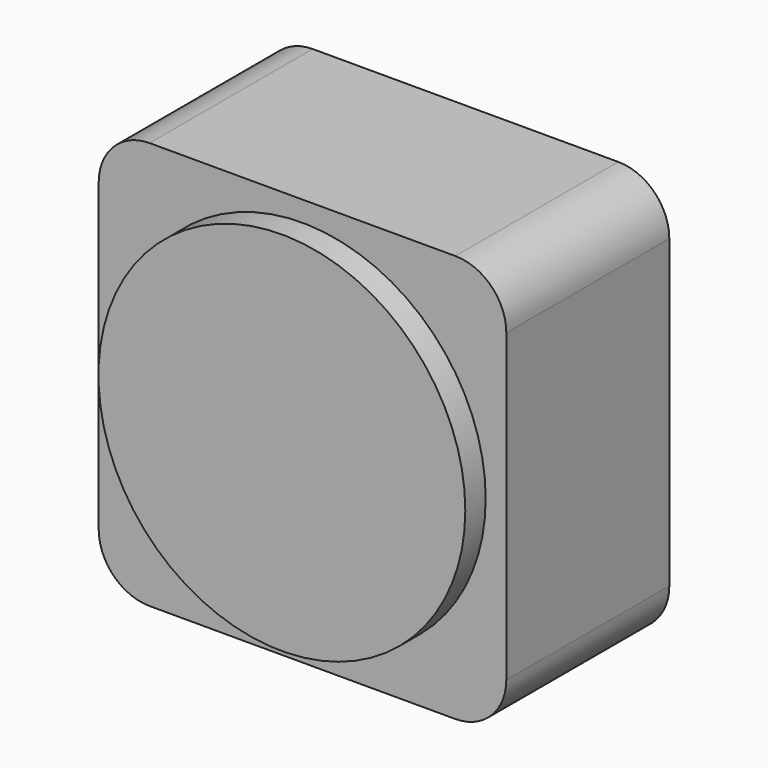
from build123d import *

# Parameters (mm, degrees)
F0_W     = 40
F0_H     = 40
F1_DEPTH = 20
F2_R     = 5
F3_R     = 18
F4_DEPTH = 2.5


with BuildPart() as f1:
    # F0 (on Front) → F1 (new body)
    with BuildSketch(Plane.XZ):
        with Locations((20, 20)):
            Rectangle(F0_W, F0_H)
    extrude(amount=F1_DEPTH)

    # F2
    f2_edges = [f1.edges().sort_by_distance(p)[0] for p in [
        (0, -10, 40),
        (40, -10, 40),
        (0, -10, 0),
        (40, -10, 0),
    ]]
    fillet(f2_edges, radius=F2_R)

    # F3 (on face) → F4 (join)
    with BuildSketch(Plane.XZ.offset(20)):
        with Locations((19.97735, 20)):
            Circle(F3_R)
    extrude(amount=F4_DEPTH)


solid = f1.part
